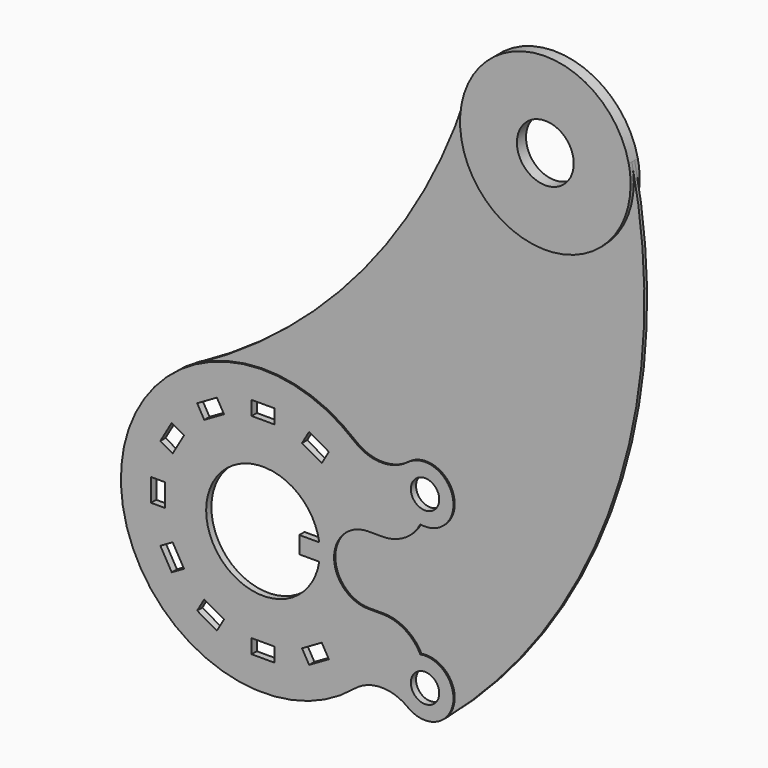
from build123d import *

# Parameters (mm, degrees)
F0_W     = 5
F0_H     = 8
F0_W_2   = 8
F0_H_2   = 5
F0_R     = 5
F1_DEPTH = 1.15
F0_R_2   = 10
F2_DEPTH = 2
F3_DEPTH = 0.6


with BuildPart() as f1:
    # F0 (on Front) → F1 (new body, symmetric)
    with BuildSketch(Plane.XZ):
        with BuildLine():
            ThreePointArc((18.782546, 3.532412), (9.32213, 0.424304), (0, 3.925403))
            ThreePointArc((0, 3.925403), (-27.108516, 15.354919), (-55.951914, 9.561484))
            ThreePointArc((-55.951914, 9.561484), (-73.464642, -62.510858), (0, -72.712058))
            ThreePointArc((0, -72.712058), (9.32213, -69.210959), (18.782546, -72.319067))
            ThreePointArc((18.782546, -72.319067), (25.131351, -74.390176), (31.368196, -72.003009))
            ThreePointArc((31.368196, -72.003009), (33.942931, -60.166179), (23.219184, -54.532259))
            ThreePointArc((23.219184, -54.532259), (17.69324, -48.588718), (9.880303, -46.393328))
            Line((9.880303, -46.393328), (4.880303, -46.393328))
            ThreePointArc((4.880303, -46.393328), (-7.119697, -34.393328), (4.880303, -22.393328))
            Line((4.880303, -22.393328), (9.880303, -22.393328))
            ThreePointArc((9.880303, -22.393328), (17.69324, -20.197937), (23.219184, -14.254397))
            ThreePointArc((23.219184, -14.254397), (34.583019, -1.973139), (18.782546, 3.532412))
        make_face()
        Polygon((-48.352259, -70.50895), (-55.280462, -66.50895), (-52.780462, -62.178823), (-45.852259, -66.178823), align=None, mode=Mode.SUBTRACT)
        Polygon((-64.235319, -57.554093), (-68.235319, -50.62589), (-63.905192, -48.12589), (-59.905192, -55.054093), align=None, mode=Mode.SUBTRACT)
        with Locations((-69.013024, -34.393328)):
            Rectangle(F0_W, F0_H, mode=Mode.SUBTRACT)
        with Locations((-32.119697, -71.286655)):
            Rectangle(F0_W_2, F0_H_2, mode=Mode.SUBTRACT)
        Polygon((-8.958931, -66.50895), (-15.887134, -70.50895), (-18.387134, -66.178823), (-11.458931, -62.178823), align=None, mode=Mode.SUBTRACT)
        with BuildLine():
            ThreePointArc((-12.345977, -37.393328), (-52.119697, -34.393328), (-12.345977, -31.393328))
            Line((-12.345977, -31.393328), (-19.345977, -31.393328))
            Line((-19.345977, -31.393328), (-19.345977, -37.393328))
            Line((-19.345977, -37.393328), (-12.345977, -37.393328))
        make_face(mode=Mode.SUBTRACT)
        Polygon((-68.235319, -18.160765), (-64.235319, -11.232562), (-59.905192, -13.732562), (-63.905192, -20.660765), align=None, mode=Mode.SUBTRACT)
        Polygon((-55.280462, -2.277705), (-48.352259, 1.722295), (-45.852259, -2.607832), (-52.780462, -6.607832), align=None, mode=Mode.SUBTRACT)
        Polygon((-15.887134, 1.722295), (-8.958931, -2.277705), (-11.458931, -6.607832), (-18.387134, -2.607832), align=None, mode=Mode.SUBTRACT)
        with Locations((-32.119697, 2.5)):
            Rectangle(F0_W_2, F0_H_2, mode=Mode.SUBTRACT)
        with Locations((24.880303, -64.393328)):
            Circle(F0_R, mode=Mode.SUBTRACT)
        with Locations((24.880303, -4.393328)):
            Circle(F0_R, mode=Mode.SUBTRACT)
    extrude(amount=F1_DEPTH, both=True)


with BuildPart() as f2:
    # F0 (on Front) → F2 (new body, symmetric)
    with BuildSketch(Plane.XZ):
        with BuildLine():
            ThreePointArc((97.222063, 121.856566), (69.355043, 145.570403), (39.294075, 124.707636))
            ThreePointArc((39.294075, 124.707636), (63.275244, 85.962222), (97.880303, 115.606672))
            ThreePointArc((97.880303, 115.606672), (97.715289, 118.748903), (97.222063, 121.856566))
        make_face()
        with Locations((67.880303, 115.606672)):
            Circle(F0_R_2, mode=Mode.SUBTRACT)
    extrude(amount=F2_DEPTH, both=True)


with BuildPart() as f3:
    # F0 (on Front) → F3 (new body, symmetric)
    with BuildSketch(Plane.XZ):
        with BuildLine():
            ThreePointArc((-55.951914, 9.561484), (-27.108516, 15.354919), (0, 3.925403))
            ThreePointArc((0, 3.925403), (9.32213, 0.424304), (18.782546, 3.532412))
            ThreePointArc((18.782546, 3.532412), (34.583019, -1.973139), (23.219184, -14.254397))
            ThreePointArc((23.219184, -14.254397), (17.69324, -20.197937), (9.880303, -22.393328))
            Line((9.880303, -22.393328), (4.880303, -22.393328))
            ThreePointArc((4.880303, -22.393328), (-7.119697, -34.393328), (4.880303, -46.393328))
            Line((4.880303, -46.393328), (9.880303, -46.393328))
            ThreePointArc((9.880303, -46.393328), (17.69324, -48.588718), (23.219184, -54.532259))
            ThreePointArc((23.219184, -54.532259), (33.942931, -60.166179), (31.368196, -72.003009))
            ThreePointArc((31.368196, -72.003009), (90.98226, 15.861192), (97.222063, 121.856566))
            ThreePointArc((97.222063, 121.856566), (97.715289, 118.748903), (97.880303, 115.606672))
            ThreePointArc((97.880303, 115.606672), (63.275244, 85.962222), (39.294075, 124.707636))
            ThreePointArc((39.294075, 124.707636), (2.829225, 57.904825), (-55.951914, 9.561484))
        make_face()
    extrude(amount=F3_DEPTH, both=True)


solid = Compound([f1.part, f2.part, f3.part])
